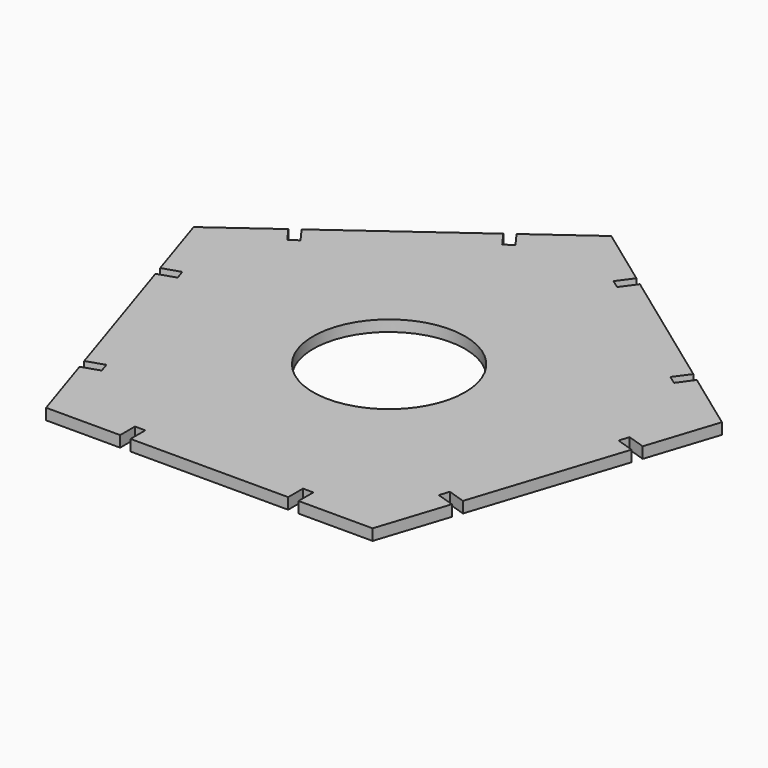
from build123d import *

# Parameters (mm, degrees)
F0_R     = 20.5
F1_DEPTH = 3


with BuildPart() as f1:
    # F0 (on Top) → F1 (new body)
    with BuildSketch(Plane.XY):
        Polygon((16.18034, 63.244295), (0, 75), (-16.18034, 63.244295), (-13.241414, 59.19921), (-15.506661, 57.553411), (-18.445587, 61.598496), (-52.883651, 36.577778), (-49.944725, 32.532693), (-52.209973, 30.886895), (-55.148899, 34.93198), (-71.329239, 23.176275), (-65.148899, 4.155144), (-60.393616, 5.700229), (-59.528369, 3.037271), (-64.283651, 1.492186), (-51.129481, -38.992186), (-46.374199, -37.447101), (-45.508951, -40.110059), (-50.264234, -41.655144), (-44.083894, -60.676275), (-24.083894, -60.676275), (-24.083894, -55.676275), (-21.283894, -55.676275), (-21.283894, -60.676275), (21.283894, -60.676275), (21.283894, -55.676275), (24.083894, -55.676275), (24.083894, -60.676275), (44.083894, -60.676275), (50.264234, -41.655144), (45.508951, -40.110059), (46.374199, -37.447101), (51.129481, -38.992186), (64.283651, 1.492186), (59.528369, 3.037271), (60.393616, 5.700229), (65.148899, 4.155144), (71.329239, 23.176275), (55.148899, 34.93198), (52.209973, 30.886895), (49.944725, 32.532693), (52.883651, 36.577778), (18.445587, 61.598496), (15.506661, 57.553411), (13.241414, 59.19921), align=None)
        Circle(F0_R, mode=Mode.SUBTRACT)
    extrude(amount=F1_DEPTH)


solid = f1.part
